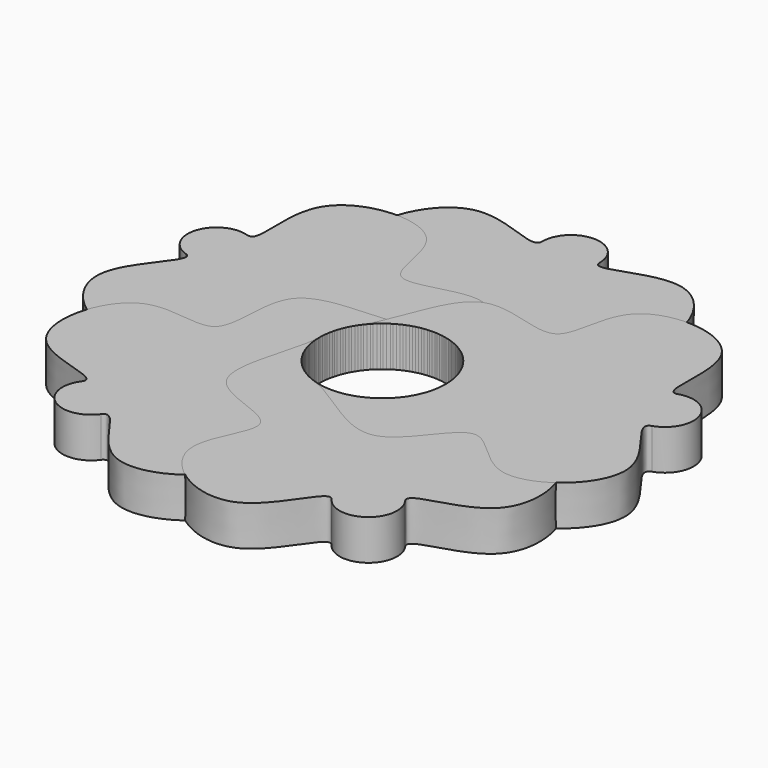
from build123d import *

# Parameters (mm, degrees)
F1_DEPTH = 7
F2_COUNT = 5


with BuildPart() as f1:
    # F0 (on Top) → F1 (new body)
    with BuildSketch(Plane.XY):
        with BuildLine():
            ThreePointArc((-8.7725358407, -6.636461024), (-9.8488849944, 4.8989248175), (0, 11))
            Line((0, 11), (0, 36))
            ThreePointArc((0, 36), (-3.5355339059, 37.4644660941), (-5, 41))
            add(Edge.make_bspline(
                [(-5, 41), (-5, 38.0872303005), (-20.5651596655, 49.5112679942), (-30.7020397548, 24.2423031151), (-9.4118064781, 20.9374617065), (-28.0178931905, 5.2969728635), (-12.0925510477, -2.2478339697), (-8.7725358407, -6.636461024)],
                knots=[0, 0, 0, 0, 0.1862969515, 0.4020357897, 0.5860478428, 0.7772203502, 1, 1, 1, 1], degree=3))
        make_face()
        with BuildLine():
            ThreePointArc((-5, 41), (-3.5355339059, 37.4644660941), (0, 36))
            ThreePointArc((0, 36), (3.5355339059, 37.4644660941), (5, 41))
            ThreePointArc((5, 41), (0, 46), (-5, 41))
        make_face()
        with BuildLine():
            ThreePointArc((0, 11), (7.7781745931, 7.7781745931), (11, 0))
            ThreePointArc((11, 0), (10.4282763256, -3.5001504076), (8.7725358407, -6.636461024))
            add(Edge.make_bspline(
                [(5, 41), (5, 38.0872303005), (20.5651596655, 49.5112679942), (30.7020397548, 24.2423031151), (9.4118064781, 20.9374617065), (28.0178931905, 5.2969728635), (12.0925510477, -2.2478339697), (8.7725358407, -6.636461024)],
                knots=[0, 0, 0, 0, 0.1862969515, 0.4020357897, 0.5860478428, 0.7772203502, 1, 1, 1, 1], degree=3))
            ThreePointArc((5, 41), (3.5355339059, 37.4644660941), (0, 36))
            Line((0, 36), (0, 11))
        make_face()
    extrude(amount=F1_DEPTH)


with BuildPart() as f2_1:
    # F2: instance of F1
    add(f1.part.rotate(Axis((0, 0, 0), (0, 0, 1)), 1 * 360 / F2_COUNT))


with BuildPart() as f2_2:
    # F2: instance of F1
    add(f1.part.rotate(Axis((0, 0, 0), (0, 0, 1)), 2 * 360 / F2_COUNT))


with BuildPart() as f2_3:
    # F2: instance of F1
    add(f1.part.rotate(Axis((0, 0, 0), (0, 0, 1)), 3 * 360 / F2_COUNT))


with BuildPart() as f2_4:
    # F2: instance of F1
    add(f1.part.rotate(Axis((0, 0, 0), (0, 0, 1)), 4 * 360 / F2_COUNT))


solid = Compound([f1.part, f2_1.part, f2_2.part, f2_3.part, f2_4.part])
